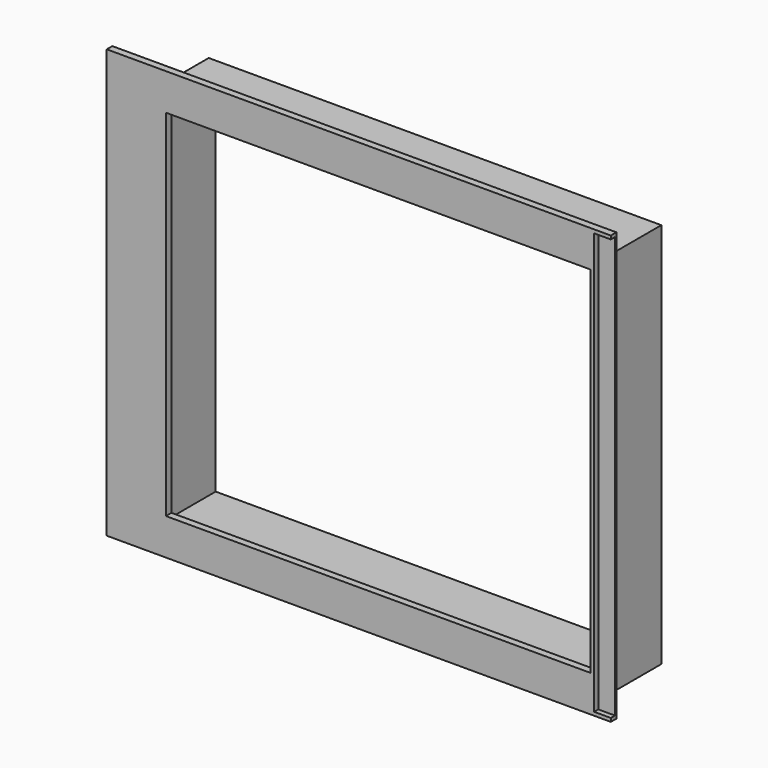
from build123d import *

# Parameters (mm, degrees)
F0_W          = 124.7
F0_H          = 107
F0_W_2        = 122
F0_H_2        = 102
F0_W_3        = 1.3
F1_DEPTH      = 2
F2_DEPTH      = 20
F3_DEPTH      = 1.5
F3_DEPTH_BACK = 2


with BuildPart() as f1:
    # F0 (on Front) → F1 (new body)
    with BuildSketch(Plane.XZ):
        Polygon((-78.3, -61.5), (66.5, -61.5), (66.5, -60.5), (61.7, -60.5), (61.7, -55.5), (-65, -55.5), (-65, 55.5), (61.7, 55.5), (61.7, 60.5), (66.5, 60.5), (66.5, 61.5), (-78.3, 61.5), align=None)
        Polygon((61.7, -53.5), (61.7, -55.5), (65, -55.5), (65, 55.5), (61.7, 55.5), (61.7, 53.5), (63, 53.5), (63, -53.5), align=None)
        Polygon((-65, -55.5), (61.7, -55.5), (61.7, -53.5), (-63, -53.5), (-63, 53.5), (61.7, 53.5), (61.7, 55.5), (-65, 55.5), align=None)
        with Locations((-0.65, 0)):
            Rectangle(F0_W, F0_H)
        with Locations((-0.3, 0)):
            Rectangle(F0_W_2, F0_H_2, mode=Mode.SUBTRACT)
        Polygon((61.7, -60.5), (66.5, -60.5), (66.5, 60.5), (61.7, 60.5), (61.7, 55.5), (65, 55.5), (65, -55.5), (61.7, -55.5), align=None)
        with Locations((62.35, 0)):
            Rectangle(F0_W_3, F0_H)
    extrude(amount=-F1_DEPTH)

    # F0 (on Front) → F2 (join)
    with BuildSketch(Plane.XZ):
        Polygon((61.7, -53.5), (61.7, -55.5), (65, -55.5), (65, 55.5), (61.7, 55.5), (61.7, 53.5), (63, 53.5), (63, -53.5), align=None)
        Polygon((-65, -55.5), (61.7, -55.5), (61.7, -53.5), (-63, -53.5), (-63, 53.5), (61.7, 53.5), (61.7, 55.5), (-65, 55.5), align=None)
    extrude(amount=-F2_DEPTH)

    # F0 (on Front) → F3 (cut, two sides)
    with BuildSketch(Plane.XZ) as f3_sk:
        Polygon((61.7, -60.5), (66.5, -60.5), (66.5, 60.5), (61.7, 60.5), (61.7, 55.5), (65, 55.5), (65, -55.5), (61.7, -55.5), align=None)
        with Locations((62.35, 0)):
            Rectangle(F0_W_3, F0_H)
        Polygon((61.7, -53.5), (61.7, -55.5), (65, -55.5), (65, 55.5), (61.7, 55.5), (61.7, 53.5), (63, 53.5), (63, -53.5), align=None)
    extrude(amount=-F3_DEPTH, mode=Mode.SUBTRACT)
    extrude(f3_sk.sketch, amount=F3_DEPTH_BACK, mode=Mode.SUBTRACT)


solid = f1.part
